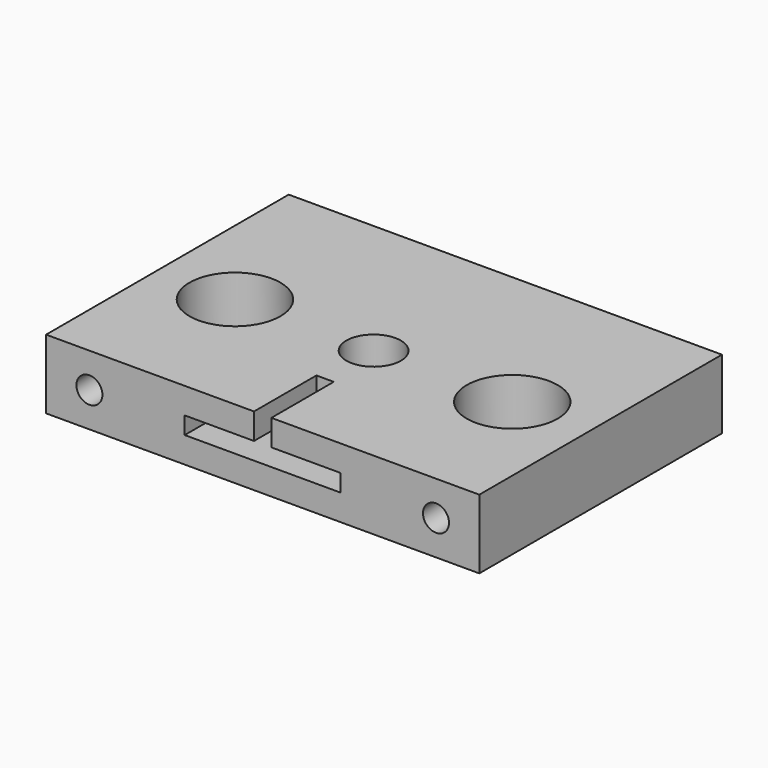
from build123d import *

# Parameters (mm, degrees)
F0_W     = 50
F0_H     = 35
F1_DEPTH = 8
F2_R     = 5.25
F2_R_2   = 3.15
F3_DEPTH = 8
F4_R     = 1.5
F5_DEPTH = 3
F6_DEPTH = 9


with BuildPart() as f1:
    # F0 (on Top) → F1 (new body)
    with BuildSketch(Plane.XY):
        with Locations((25, 17.5)):
            Rectangle(F0_W, F0_H)
    extrude(amount=F1_DEPTH)

    # F2 (on face) → F3 (cut)
    with BuildSketch(Plane.XY.offset(8)):
        with Locations((9, 16)):
            Circle(F2_R)
        with Locations((41, 16)):
            Circle(F2_R)
        with Locations((25, 16)):
            Circle(F2_R_2)
    extrude(amount=-F3_DEPTH, mode=Mode.SUBTRACT)

    # F4 (on face) → F5 (cut)
    with BuildSketch(Plane.XZ):
        with Locations((5, 4)):
            Circle(F4_R)
        with Locations((45, 4)):
            Circle(F4_R)
    extrude(amount=-F5_DEPTH, mode=Mode.SUBTRACT)

    # F4 (on face) → F6 (cut)
    with BuildSketch(Plane.XZ):
        Polygon((26, 8), (24, 8), (24, 5), (16, 5), (16, 3), (34, 3), (34, 5), (26, 5), align=None)
    extrude(amount=-F6_DEPTH, mode=Mode.SUBTRACT)


solid = f1.part
